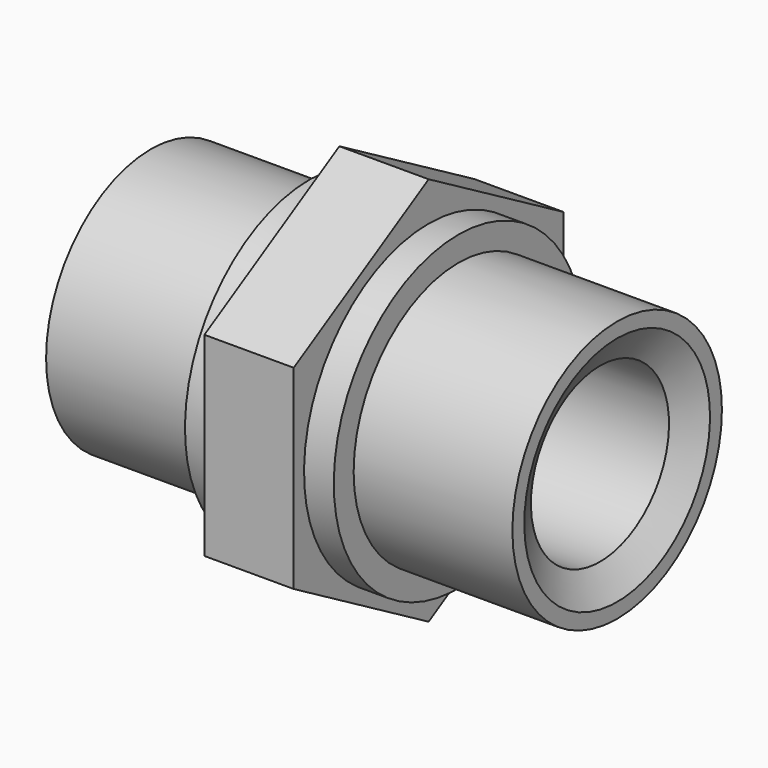
from build123d import *

# Parameters (mm, degrees)
F2_SIZE2 = 3
F2_SIZE  = 1.7320508076
F3_R     = 8.7
F4_DEPTH = 4.5


with BuildPart() as f1:
    # F0 (on Front) → F1 (revolve)
    with BuildSketch(Plane.XZ):
        Polygon((-23.5, 8.7), (23.5, 8.7), (23.5, 13.2), (7.5, 13.2), (7.5, 15.7), (-7.5, 15.7), (-7.5, 13.2), (-23.5, 13.2), align=None)
    revolve(axis=Axis((-11.75, 0, 0), (1, 0, 0)))

    # F2
    f2_edges = [f1.edges().sort_by_distance(p)[0] for p in [
        (23.5, 0, -8.7),
        (-23.5, 0, -8.7),
    ]]
    f2_side = f1.faces().sort_by_distance((0, 0, -8.7))[0]
    chamfer(f2_edges, length=F2_SIZE, length2=F2_SIZE2, reference=f2_side)

    # F3 (on Right) → F4 (join, symmetric)
    with BuildSketch(Plane.YZ):
        Polygon((17, -9.8149545762), (17, 9.8149545762), (0, 19.6299091524), (-17, 9.8149545762), (-17, -9.8149545762), (0, -19.6299091524), align=None)
        Circle(F3_R, mode=Mode.SUBTRACT)
    extrude(amount=F4_DEPTH, both=True)


solid = f1.part
